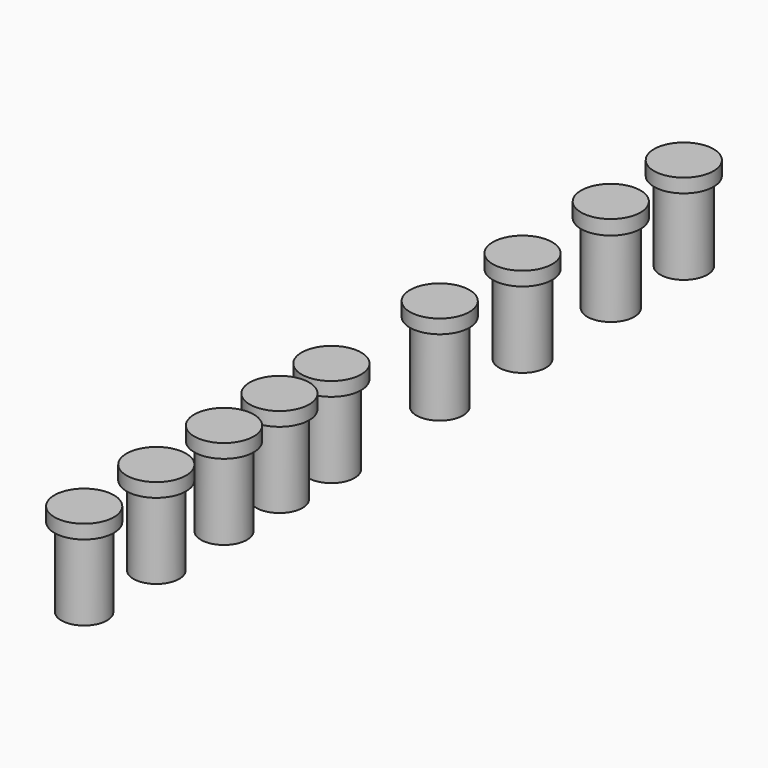
from build123d import *

# Parameters (mm, degrees)
F0_W    = 11.7
F0_H    = 7
F0_W_2  = 3.3
F0_H_2  = 40
F0_W_3  = 11.9
F0_W_4  = 11.85
F0_W_5  = 11.8
F0_W_6  = 11.75
F0_W_7  = 11.65
F0_W_8  = 11.6
F0_W_9  = 11.55
F0_W_10 = 11.5


with BuildPart() as f1:
    # F0 (on Right) → F1 (revolve)
    with BuildSketch(Plane.YZ):
        with Locations((5.85, 43.5)):
            Rectangle(F0_W, F0_H)
        with Locations((13.35, 43.5)):
            Rectangle(F0_W_2, F0_H)
        with Locations((5.85, 20)):
            Rectangle(F0_W, F0_H_2)
    revolve(axis=Axis((0, 0, 23.5), (0, 0, 1)))


with BuildPart() as f2:
    # F0 (on Right) → F2 (revolve)
    with BuildSketch(Plane.YZ):
        with Locations((216.0361596823, 20)):
            Rectangle(F0_W_3, F0_H_2)
        Polygon((210.0861596823, 40), (221.9861596823, 40), (221.9861596823, 47), (206.9861596823, 47), (206.9861596823, 40), align=None)
    revolve(axis=Axis((0, 221.9861596823, 20), (0, 0, 1)))


with BuildPart() as f3:
    # F0 (on Right) → F3 (revolve)
    with BuildSketch(Plane.YZ):
        with Locations((170.0716909885, 20)):
            Rectangle(F0_W_4, F0_H_2)
        Polygon((160.9966909885, 40), (164.1466909885, 40), (175.9966909885, 40), (175.9966909885, 47.3348134756), (160.9966909885, 47.3348134756), align=None)
    revolve(axis=Axis((0, 175.9966909885, 20), (0, 0, 1)))


with BuildPart() as f4:
    # F0 (on Right) → F4 (revolve)
    with BuildSketch(Plane.YZ):
        with Locations((114.4857660294, 20)):
            Rectangle(F0_W_5, F0_H_2)
        Polygon((108.5857660294, 40), (120.3857660294, 40), (120.3857660294, 47), (105.3857660294, 47), (105.3857660294, 40), align=None)
    revolve(axis=Axis((0, 120.3857660294, 20), (0, 0, 1)))


with BuildPart() as f5:
    # F0 (on Right) → F5 (revolve)
    with BuildSketch(Plane.YZ):
        Polygon((56.4790121913, 40), (68.2290121913, 40), (68.2290121913, 47), (53.2290121913, 47), (53.2290121913, 40), align=None)
        with Locations((62.3540121913, 20)):
            Rectangle(F0_W_6, F0_H_2)
    revolve(axis=Axis((0, 68.2290121913, 20), (0, 0, 1)))


with BuildPart() as f6:
    # F0 (on Right) → F6 (revolve)
    with BuildSketch(Plane.YZ):
        with Locations((-38.5458188832, 20)):
            Rectangle(F0_W_7, F0_H_2)
        Polygon((-44.3708188832, 40), (-32.7208188832, 40), (-32.7208188832, 47), (-47.7208188832, 47), (-47.7208188832, 40), align=None)
    revolve(axis=Axis((0, -32.7208188832, 20), (0, 0, 1)))


with BuildPart() as f7:
    # F0 (on Right) → F7 (revolve)
    with BuildSketch(Plane.YZ):
        Polygon((-79.2420208454, 40), (-67.6420208454, 40), (-67.6420208454, 47), (-82.6420208454, 47), (-82.6420208454, 40), align=None)
        with Locations((-73.4420208454, 20)):
            Rectangle(F0_W_8, F0_H_2)
    revolve(axis=Axis((0, -67.6420208454, 20), (0, 0, 1)))


with BuildPart() as f8:
    # F0 (on Right) → F8 (revolve)
    with BuildSketch(Plane.YZ):
        with Locations((-116.0476477504, 20)):
            Rectangle(F0_W_9, F0_H_2)
        Polygon((-121.8226477504, 40), (-110.2726477504, 40), (-110.2726477504, 47), (-125.2726477504, 47), (-125.2726477504, 40), align=None)
    revolve(axis=Axis((0, -110.2726477504, 20), (0, 0, 1)))


with BuildPart() as f9:
    # F0 (on Right) → F9 (revolve)
    with BuildSketch(Plane.YZ):
        Polygon((-167.211920023, 40), (-155.711920023, 40), (-155.711920023, 47), (-170.711920023, 47), (-170.711920023, 40), align=None)
        with Locations((-161.461920023, 20)):
            Rectangle(F0_W_10, F0_H_2)
    revolve(axis=Axis((0, -155.711920023, 20), (0, 0, 1)))


solid = Compound([f1.part, f2.part, f3.part, f4.part, f5.part, f6.part, f7.part, f8.part, f9.part])
